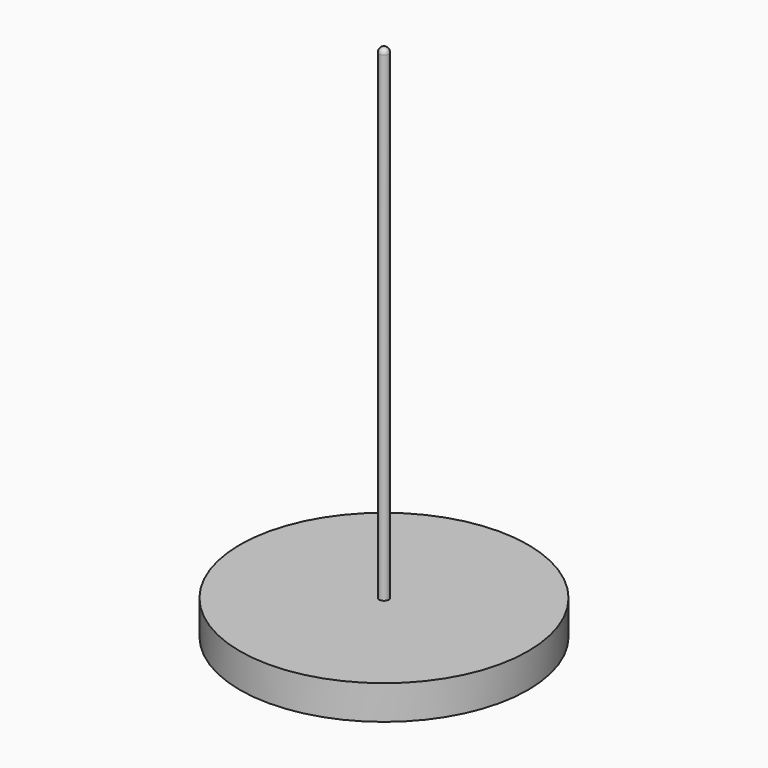
from build123d import *


with BuildPart() as f1:
    # F0 (on Front) → F1 (revolve)
    with BuildSketch(Plane.XZ):
        with BuildLine():
            ThreePointArc((0, 53.095972), (-0.707107, 52.803078), (-1, 52.095972))
            Line((-1, 52.095972), (-1, -47.904028))
            Line((-1, -47.904028), (-30, -47.904028))
            Line((-30, -47.904028), (-30, -55))
            Line((-30, -55), (0, -55))
            Line((0, -55), (0, 53.095972))
        make_face()
    revolve(axis=Axis((0, 0, -0.952014), (0, 0, -1)))


solid = f1.part
